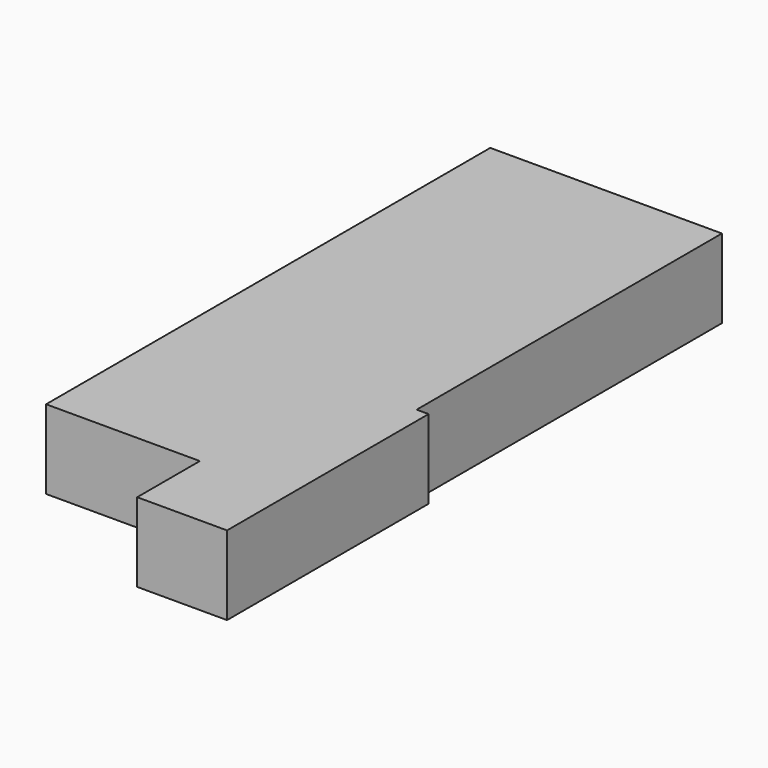
from build123d import *

# Parameters (mm, degrees)
F0_W     = 25.0537917018
F0_H     = 55.8406859636
F1_DEPTH = 25.4


with BuildPart() as f1:
    # F0 (on Top) → F1 (new body)
    with BuildSketch(Plane.XY):
        Polygon((0, 138.3560597897), (0, 82.515373826), (-25.0537917018, 82.515373826), (-25.0537917018, 57.3403835297), (3.8365423679, 57.3403835297), (3.8365423679, 138.3560597897), align=None)
        with Locations((-12.5268958509, 110.4357168078)):
            Rectangle(F0_W, F0_H)
        Polygon((-74.49362427, 82.515373826), (-25.0537917018, 82.515373826), (-25.0537917018, 138.3560597897), (0, 138.3560597897), (0, 261.0465288162), (-74.49362427, 261.0465288162), align=None)
    extrude(amount=F1_DEPTH)


solid = f1.part
